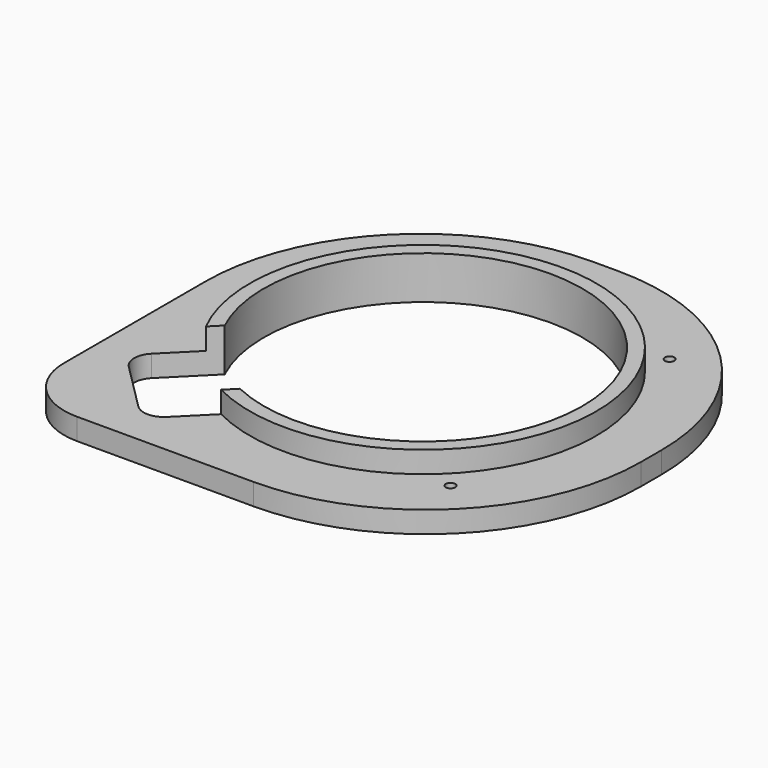
from build123d import *

# Parameters (mm, degrees)
PAD004_DEPTH  = 10
SKETCH001_R   = 40.25
SKETCH001_R_2 = 37
PAD005_DEPTH  = 10
SKETCH_W      = 106
SKETCH_H      = 106
SKETCH_R      = 1.1
SKETCH_R_2    = 37
PAD_DEPTH     = 5
FILLET_1_R    = 50
FILLET_2_R    = 15


with BuildPart() as pad_encoder_hole:
    # Sketch006 → Pad004 (new body)
    with BuildSketch(Plane.XY):
        with BuildLine():
            ThreePointArc((-42.900661, -31.83444), (-44.269937, -28.528716), (-42.900661, -25.222992))
            Line((-42.900661, -25.222992), (-31.955387, -14.277718))
            ThreePointArc((-31.955387, -14.277718), (-24.748737, -24.748737), (-14.277718, -31.955387))
            Line((-14.277718, -31.955387), (-25.222992, -42.900661))
            ThreePointArc((-25.222992, -42.900661), (-28.528716, -44.269937), (-31.83444, -42.900661))
            Line((-31.83444, -42.900661), (-42.900661, -31.83444))
        make_face()
    extrude(amount=PAD004_DEPTH)


with BuildPart() as pad_ring:
    # Sketch001 → Pad005 (new body)
    with BuildSketch(Plane.XY):
        Circle(SKETCH001_R)
        Circle(SKETCH001_R_2, mode=Mode.SUBTRACT)
    extrude(amount=PAD005_DEPTH)


with BuildPart() as fillet_remove_material:
    # Sketch → Pad (new body)
    with BuildSketch(Plane.XY):
        Rectangle(SKETCH_W, SKETCH_H)
        with Locations((-31.819805, 31.819805)):
            Circle(SKETCH_R, mode=Mode.SUBTRACT)
        with Locations((31.819805, 31.819805)):
            Circle(SKETCH_R, mode=Mode.SUBTRACT)
        with Locations((31.819805, -31.819805)):
            Circle(SKETCH_R, mode=Mode.SUBTRACT)
        with Locations((-31.819805, -31.819805)):
            Circle(SKETCH_R, mode=Mode.SUBTRACT)
        Circle(SKETCH_R_2, mode=Mode.SUBTRACT)
    extrude(amount=PAD_DEPTH)

    # Fusion: union Pad (ring)
    add(pad_ring.part)

    # Cut: cut Pad (encoder hole)
    add(pad_encoder_hole.part, mode=Mode.SUBTRACT)

    # Fillet 1
    fillet_1_edges = [fillet_remove_material.edges().sort_by_distance(p)[0] for p in [
        (-53, 53, 2.5),
        (53, 53, 2.5),
        (53, -53, 2.5),
    ]]
    fillet(fillet_1_edges, radius=FILLET_1_R)

    # Fillet 2
    fillet_2_edges = [fillet_remove_material.edges().sort_by_distance(p)[0] for p in [
        (-53, -53, 2.5),
    ]]
    fillet(fillet_2_edges, radius=FILLET_2_R)


solid = fillet_remove_material.part
